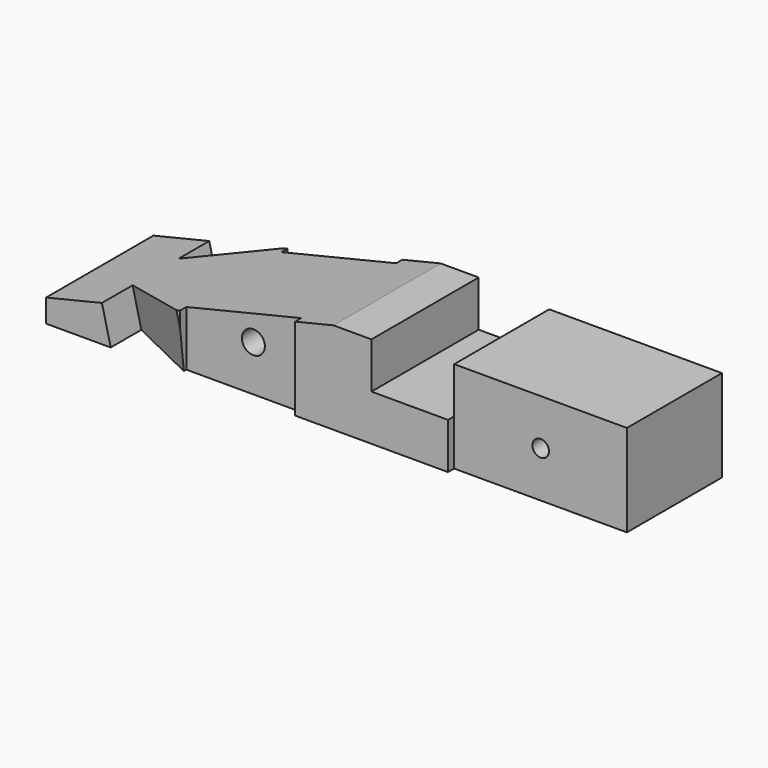
from build123d import *

# Parameters (mm, degrees)
F0_W      = 150
F0_H      = 24
F0_R      = 3
F0_R_2    = 2.1592760918
F1_DEPTH  = 35
F3_DEPTH  = 35
F5_DEPTH  = 25
F6_W      = 20
F6_H      = 12
F7_DEPTH  = 35
F8_W      = 30
F8_H      = 2
F9_DEPTH  = 25
F10_W     = 45.1
F10_H     = 2
F11_DEPTH = 25


with BuildPart() as f1:
    # F0 (on Front) → F1 (new body)
    with BuildSketch(Plane.XZ):
        Rectangle(F0_W, F0_H)
        with Locations((-22.5, 0.0003034234)):
            Circle(F0_R, mode=Mode.SUBTRACT)
        with Locations((52.5, 0)):
            Circle(F0_R_2, mode=Mode.SUBTRACT)
    extrude(amount=F1_DEPTH)

    # F2 (on face) → F3 (cut)
    with BuildSketch(Plane.XZ.offset(35)):
        Polygon((-75, 12), (-75, -6), (0, 12), align=None)
    extrude(amount=-F3_DEPTH, mode=Mode.SUBTRACT)

    # F4 (on face) → F5 (cut)
    with BuildSketch(Plane(origin=(-2.7231467474, 0, 11.3464447806), x_dir=(0.972387302, 0, 0.2333729525), z_dir=(-0.2333729525, 0, 0.972387302))):
        Polygon((-59.3292853634, -25), (-59.3292853634, -35), (-39.3292853634, -35), align=None)
        Polygon((-39.3292853634, 0), (-59.3292853634, 0), (-59.3292853634, -10), align=None)
    extrude(amount=-F5_DEPTH, mode=Mode.SUBTRACT)

    # F6 (on face) → F7 (cut)
    with BuildSketch(Plane.XZ.offset(35)):
        with Locations((19.9226795137, 6)):
            Rectangle(F6_W, F6_H)
    extrude(amount=-F7_DEPTH, mode=Mode.SUBTRACT)

    # F8 (on face) → F9 (cut)
    with BuildSketch(Plane(origin=(0, 0, -12), x_dir=(1, 0, 0), z_dir=(0, 0, -1))):
        with Locations((-25, 34)):
            Rectangle(F8_W, F8_H)
        with Locations((-25, 1)):
            Rectangle(F8_W, F8_H)
    extrude(amount=-F9_DEPTH, mode=Mode.SUBTRACT)

    # F10 (on face) → F11 (cut)
    with BuildSketch(Plane(origin=(0, 0, -12), x_dir=(1, 0, 0), z_dir=(0, 0, -1))):
        with Locations((52.45, 34)):
            Rectangle(F10_W, F10_H)
        with Locations((52.45, 1)):
            Rectangle(F10_W, F10_H)
    extrude(amount=-F11_DEPTH, mode=Mode.SUBTRACT)


solid = f1.part
